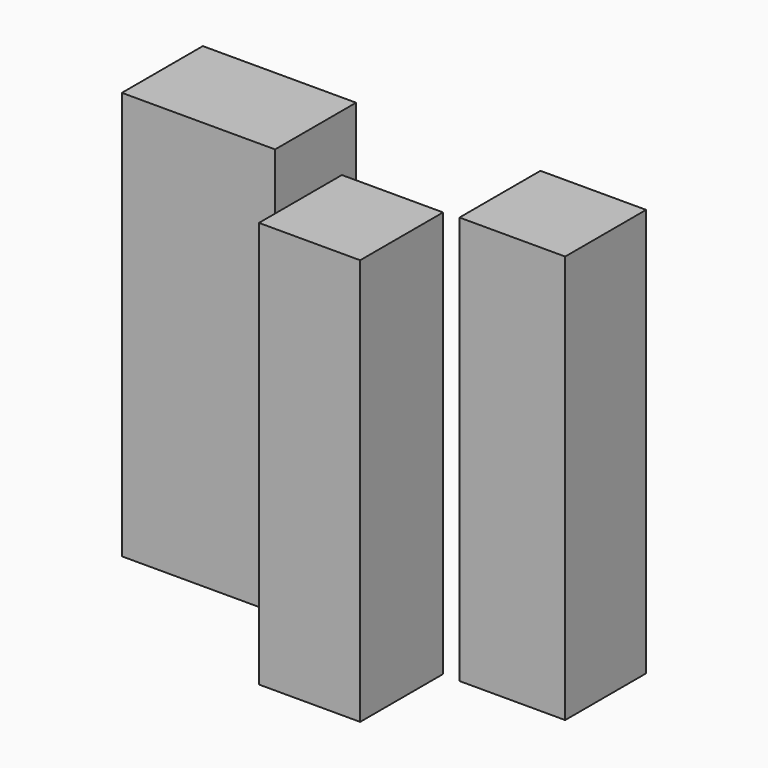
from build123d import *

# Parameters (mm, degrees)
F0_W     = 111.2735532224
F0_H     = 102.4292558432
F1_DEPTH = 25.4
F2_W     = 26.0186772794
F2_H     = 102.0178943872
F3_DEPTH = 25.4
F4_W     = 25.9158369154
F4_H     = 77.1304611117
F4_W_2   = 20.3624423593
F4_H_2   = 22.6249378175
F4_H_3   = 2.673856914
F5_DEPTH = 25.4


with BuildPart() as f1:
    # F0 (on Front) → F1 (new body)
    with BuildSketch(Plane.XZ):
        with Locations((0.4113633186, -4.8335082829)):
            Rectangle(F0_W, F0_H)
    extrude(amount=-F1_DEPTH)

    # F2 (on Right) → F3 (join)
    with BuildSketch(Plane.YZ):
        with Locations((-13.0093386397, -4.8335082829)):
            Rectangle(F2_W, F2_H)
    extrude(amount=F3_DEPTH)

    # F4 (on face) → F5 (cut)
    with BuildSketch(Plane(origin=(0, 25.4, 0), x_dir=(-1, 0, 0), z_dir=(0, 1, 0))):
        with Locations((3.8051037118, -17.4829056486)):
            Rectangle(F4_W, F4_H)
        with Locations((-19.3340359256, -17.4829056486)):
            Rectangle(F4_W_2, F4_H)
        with Locations((-19.3340359256, 32.3947938159)):
            Rectangle(F4_W_2, F4_H_2)
        with Locations((3.8051037118, 32.3947938159)):
            Rectangle(F4_W, F4_H_2)
        with Locations((-19.3340359256, 45.0441911817)):
            Rectangle(F4_W_2, F4_H_3)
        with Locations((3.8051037118, 45.0441911817)):
            Rectangle(F4_W, F4_H_3)
    extrude(amount=-F5_DEPTH, mode=Mode.SUBTRACT)


solid = f1.part
